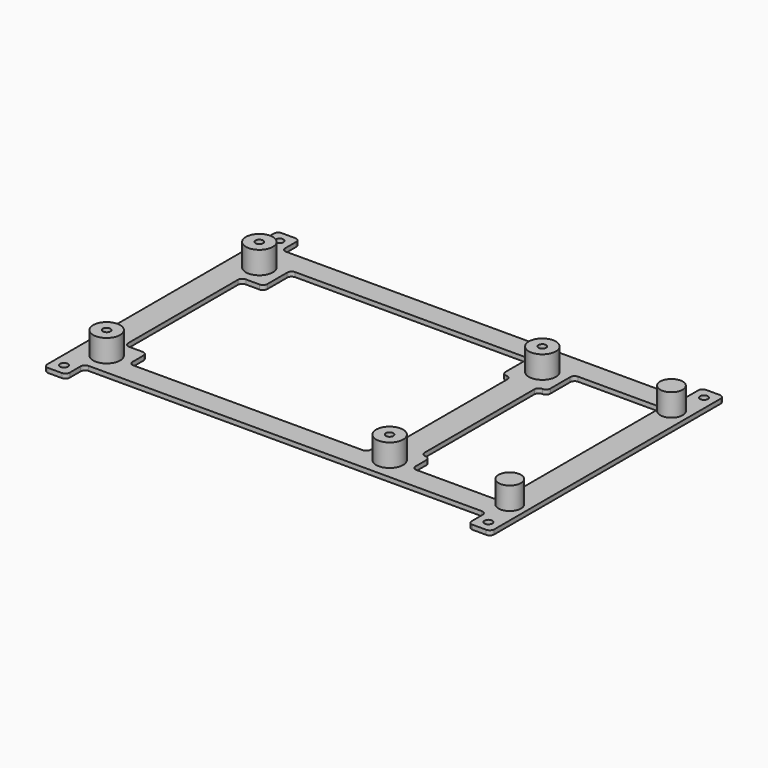
from build123d import *

# Parameters (mm, degrees)
SKETCH001_R      = 1.75
PAD_DEPTH        = 2
FILLET_R         = 1.98
SKETCH002_R      = 6
SKETCH002_R_2    = 5
PAD001_DEPTH     = 10
HOLE_D           = 3.4
HOLE_CBORE_D     = 6.1
HOLE_CBORE_DEPTH = 3.4
SKETCH004_R      = 1.7
PAD002_DEPTH     = 0.2


with BuildPart() as part:
    # Sketch001 → Pad (new body)
    with BuildSketch(Plane.XY):
        Polygon((-99.5, 65), (-89.5, 65), (-89.5, 55), (89.5, 55), (89.5, 65), (99.5, 65), (99.5, -65), (89.5, -65), (89.5, -55), (-89.5, -55), (-89.5, -65), (-99.5, -65), align=None)
        with Locations((-94.5, 60)):
            Circle(SKETCH001_R, mode=Mode.SUBTRACT)
        with Locations((94.5, 60)):
            Circle(SKETCH001_R, mode=Mode.SUBTRACT)
        with Locations((-94.5, -60)):
            Circle(SKETCH001_R, mode=Mode.SUBTRACT)
        with Locations((94.5, -60)):
            Circle(SKETCH001_R, mode=Mode.SUBTRACT)
        Polygon((-77.5, 45), (28.5, 45), (28.5, 30), (32.5, 30), (32.5, -35), (28.5, -35), (28.5, -45), (-77.5, -45), (-77.5, -35), (-87.5, -35), (-87.5, 30), (-77.5, 30), align=None, mode=Mode.SUBTRACT)
        Polygon((48.5, 45), (87.5, 45), (87.5, -45), (48.5, -45), (48.5, -35), (44.5, -35), (44.5, 30), (48.5, 30), align=None, mode=Mode.SUBTRACT)
    extrude(amount=PAD_DEPTH)

    # Fillet
    fillet_edges = [part.edges().sort_by_distance(p)[0] for p in [
        (-89.5, -65, 1),
        (-99.5, -65, 1),
        (-89.5, -55, 1),
        (48.5, 30, 1),
        (48.5, 45, 1),
        (87.5, 45, 1),
        (-77.5, 30, 1),
        (-77.5, 45, 1),
        (-89.5, 55, 1),
        (-89.5, 65, 1),
        (-99.5, 65, 1),
        (28.5, 45, 1),
        (28.5, 30, 1),
        (32.5, 30, 1),
        (32.5, -35, 1),
        (28.5, -35, 1),
        (89.5, 55, 1),
        (89.5, 65, 1),
        (99.5, 65, 1),
        (99.5, -65, 1),
        (89.5, -65, 1),
        (89.5, -55, 1),
        (28.5, -45, 1),
        (-77.5, -45, 1),
        (-77.5, -35, 1),
        (-87.5, -35, 1),
        (-87.5, 30, 1),
        (44.5, -35, 1),
        (48.5, -35, 1),
        (48.5, -45, 1),
        (87.5, -45, 1),
        (44.5, 30, 1),
    ]]
    fillet(fillet_edges, radius=FILLET_R)

    # Sketch002 → Pad001 (join)
    with BuildSketch(Plane.XY.offset(2)):
        with Locations((-87.5, 40)):
            Circle(SKETCH002_R)
        with Locations((38.5, 40)):
            Circle(SKETCH002_R)
        with Locations((38.5, -45)):
            Circle(SKETCH002_R)
        with Locations((-87.5, -45)):
            Circle(SKETCH002_R)
        with Locations((92, -45)):
            Circle(SKETCH002_R_2)
        with Locations((92, 45)):
            Circle(SKETCH002_R_2)
    extrude(amount=PAD001_DEPTH)

    # Hole (through all)
    with Locations(Plane(origin=(0, 0, 0), x_dir=(1, 0, 0), z_dir=(0, 0, -1))):
        with Locations((-87.5, -40), (38.5, -40), (38.5, 45), (-87.5, 45)):
            CounterBoreHole(HOLE_D / 2, HOLE_CBORE_D / 2, HOLE_CBORE_DEPTH)

    # Sketch004 → Pad002 (join)
    with BuildSketch(Plane.XY.offset(3.4)):
        with Locations((-87.5, 40)):
            Circle(SKETCH004_R)
        with Locations((38.5, 40)):
            Circle(SKETCH004_R)
        with Locations((38.5, -45)):
            Circle(SKETCH004_R)
        with Locations((-87.5, -45)):
            Circle(SKETCH004_R)
    extrude(amount=PAD002_DEPTH)


solid = part.part
